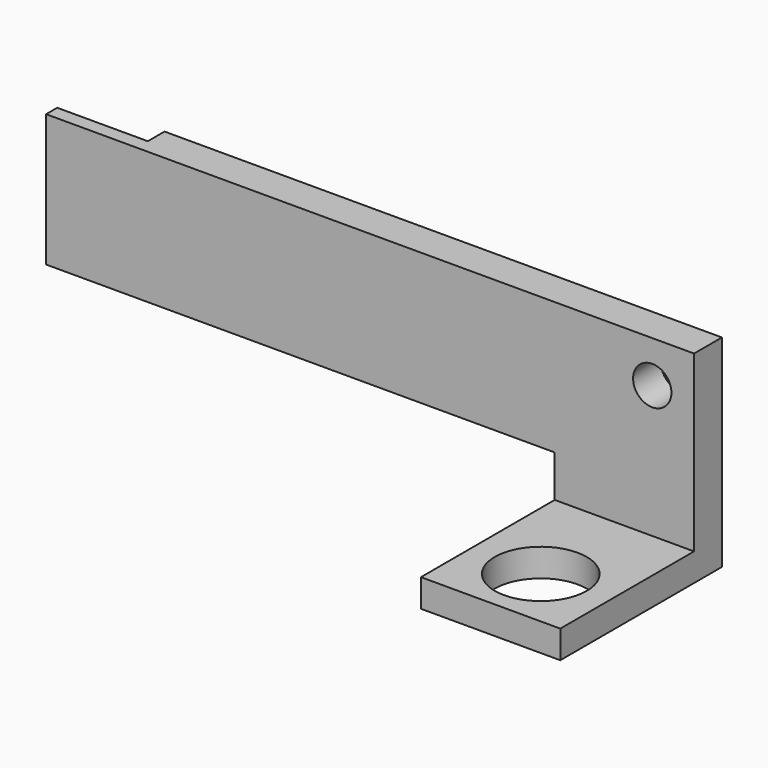
from build123d import *

# Parameters (mm, degrees)
SKETCH001_W   = 20
SKETCH001_H   = 4
PAD001_DEPTH  = 29
SKETCH002_R   = 6.6
HOLE_DEPTH    = 4.001001
SKETCH004_W   = 13
SKETCH004_H   = 3
PAD002_DEPTH  = 19
PAD_DEPTH     = 5
SKETCH003_R   = 2.75
HOLE001_DEPTH = 5.001


with BuildPart() as body001:
    # Sketch001 (on Face1 of CopyPad) → Pad001 (new body)
    with BuildSketch(Plane(origin=(0, 0, 0), x_dir=(-1, 0, 0), z_dir=(0, 1, 0))):
        with Locations((-102, -115)):
            Rectangle(SKETCH001_W, SKETCH001_H)
    extrude(amount=-PAD001_DEPTH)

    # Sketch002 (on Face3 of Pad001) → Hole (cut, through all)
    with BuildSketch(Plane(origin=(0, 3e-06, -117), x_dir=(1, 0, 0), z_dir=(0, 0, -1))):
        with Locations((102, 20)):
            Circle(SKETCH002_R)
    extrude(amount=-HOLE_DEPTH, mode=Mode.SUBTRACT)


with BuildPart() as body002:
    # Sketch004 (on Face1 of CopyHole001) → Pad002 (new body)
    with BuildSketch(Plane(origin=(0, 0, -107), x_dir=(1, 0, 0), z_dir=(0, 0, -1))):
        with Locations((25.5, 39.5)):
            Rectangle(SKETCH004_W, SKETCH004_H)
    extrude(amount=-PAD002_DEPTH)


with BuildPart() as body002_1:
    # Body002 placement: moved
    add(body002.part.moved(Location((0, 38, 0))))


with BuildPart() as body:
    # Sketch → Pad (new body)
    with BuildSketch(Plane.XZ):
        Polygon((19, -88), (112, -88), (112, -117), (92, -117), (92, -107), (19, -107), align=None)
    extrude(amount=PAD_DEPTH)

    # Sketch003 (on Face8 of Pad) → Hole001 (cut, through all)
    with BuildSketch(Plane.XZ.offset(5)):
        with Locations((106, -94)):
            Circle(SKETCH003_R)
    extrude(amount=-HOLE001_DEPTH, mode=Mode.SUBTRACT)

    # Boolean: union Body001
    add(body001.part)

    # Boolean001: cut Body002
    add(body002_1.part, mode=Mode.SUBTRACT)


solid = body.part
